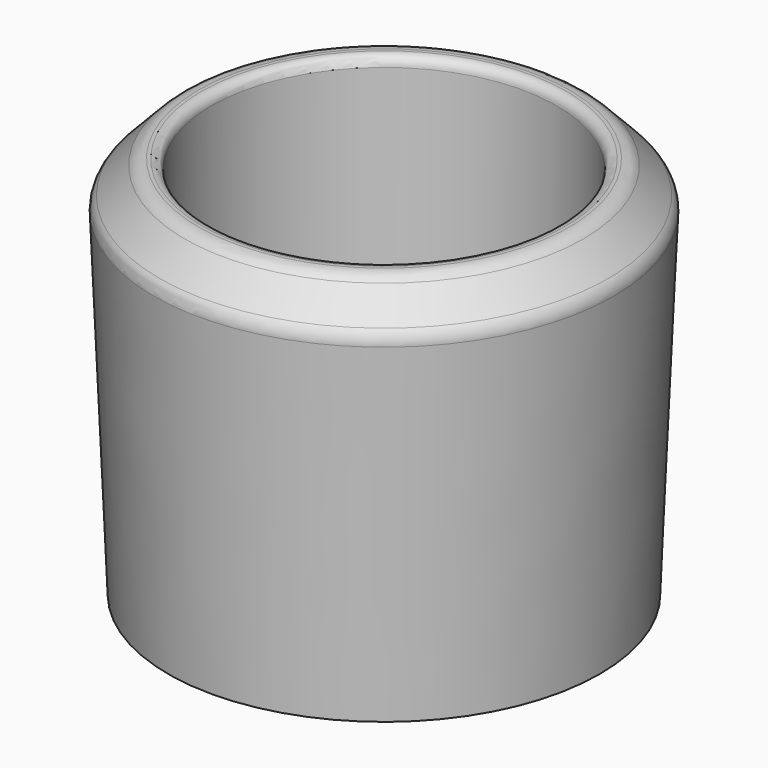
from build123d import *


with BuildPart() as f1:
    # F0 (on Front) → F1 (revolve)
    with BuildSketch(Plane.XZ):
        with BuildLine():
            Line((-30.435206, 44.644934), (-28.575, 0))
            Line((-28.575, 0), (-22.86, 0))
            Line((-22.86, 0), (-22.86, 12.7))
            Line((-22.86, 12.7), (-22.86, 49.53))
            ThreePointArc((-22.86, 49.53), (-23.231974, 50.428026), (-24.13, 50.8))
            Line((-24.13, 50.8), (-24.563549, 50.8))
            ThreePointArc((-24.563549, 50.8), (-25.565563, 50.594003), (-26.405048, 50.009424))
            Line((-26.405048, 50.009424), (-29.738906, 46.500099))
            ThreePointArc((-29.738906, 46.500099), (-30.275425, 45.643217), (-30.435206, 44.644934))
        make_face()
    revolve(axis=Axis((0, 0, 25.4), (0, 0, -1)))


solid = f1.part
